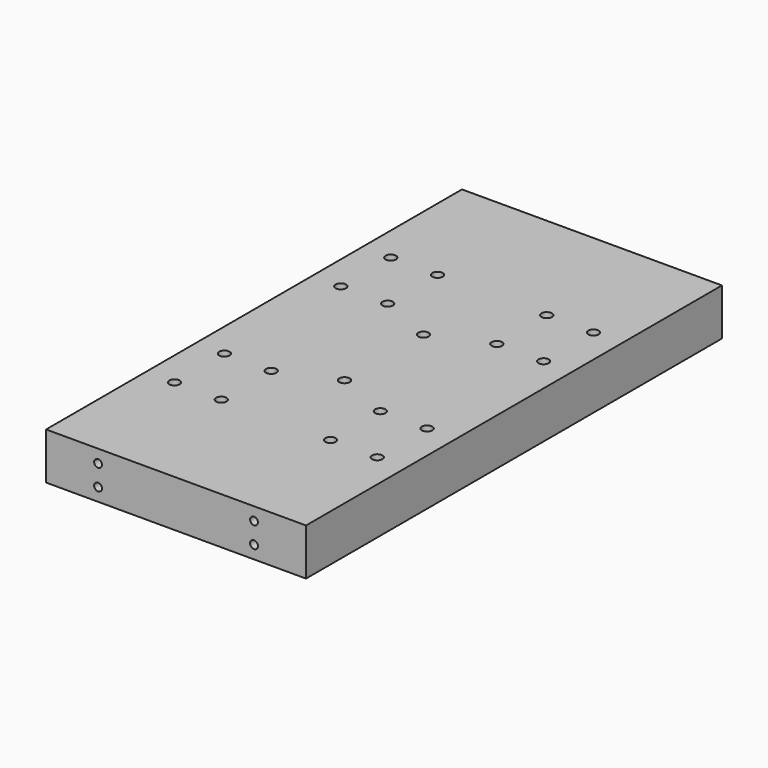
from build123d import *

# Parameters (mm, degrees)
CYLINDER021_R          = 1.5
CYLINDER021_DEPTH      = 15
CYLINDER021_ROLL_ANGLE = 90
CYLINDER020_R          = 1.5
CYLINDER020_DEPTH      = 15
CYLINDER020_ROLL_ANGLE = 90
CYLINDER018_R          = 1.5
CYLINDER018_DEPTH      = 15
CYLINDER018_ROLL_ANGLE = 90
CYLINDER019_R          = 1.5
CYLINDER019_DEPTH      = 15
CYLINDER019_ROLL_ANGLE = 90
CYLINDER017_R          = 2
CYLINDER017_DEPTH      = 25
CYLINDER016_R          = 2
CYLINDER016_DEPTH      = 25
CYLINDER001_R          = 2
CYLINDER001_DEPTH      = 25
CYLINDER002_R          = 2
CYLINDER002_DEPTH      = 25
CYLINDER003_R          = 2
CYLINDER003_DEPTH      = 25
CYLINDER_R             = 2
CYLINDER_DEPTH         = 25
BOX_W                  = 50
BOX_H                  = 100
BOX_DEPTH              = 18
CYLINDER013_R          = 2
CYLINDER013_DEPTH      = 25
CYLINDER014_R          = 2
CYLINDER014_DEPTH      = 25
CYLINDER015_R          = 2
CYLINDER015_DEPTH      = 25
CYLINDER012_R          = 2
CYLINDER012_DEPTH      = 25
BOX002_W               = 50
BOX002_H               = 100
BOX002_DEPTH           = 18
CYLINDER009_R          = 2
CYLINDER009_DEPTH      = 25
CYLINDER010_R          = 2
CYLINDER010_DEPTH      = 25
CYLINDER011_R          = 2
CYLINDER011_DEPTH      = 25
CYLINDER008_R          = 2
CYLINDER008_DEPTH      = 25
BOX003_W               = 50
BOX003_H               = 100
BOX003_DEPTH           = 18
CYLINDER005_R          = 2
CYLINDER005_DEPTH      = 25
CYLINDER006_R          = 2
CYLINDER006_DEPTH      = 25
CYLINDER007_R          = 2
CYLINDER007_DEPTH      = 25
CYLINDER004_R          = 2
CYLINDER004_DEPTH      = 25
BOX001_W               = 50
BOX001_H               = 100
BOX001_DEPTH           = 18


with BuildPart() as cilindro019:
    # Cylinder021 → Cylinder021 (new body)
    with BuildSketch(Plane.XY):
        Circle(CYLINDER021_R)
    extrude(amount=CYLINDER021_DEPTH)


with BuildPart() as cilindro019_1:
    # Cylinder021 roll: moved
    add(cilindro019.part.rotate(Axis((0, 0, 0), (1, 0, 0)), CYLINDER021_ROLL_ANGLE))


with BuildPart() as cilindro019_2:
    # Cylinder021 placement: moved
    add(cilindro019_1.part.moved(Location((20, 15, 9))))


with BuildPart() as fusion006:
    # Cylinder020 → Cylinder020 (new body)
    with BuildSketch(Plane.XY):
        Circle(CYLINDER020_R)
    extrude(amount=CYLINDER020_DEPTH)


with BuildPart() as fusion006_1:
    # Cylinder020 roll: moved
    add(fusion006.part.rotate(Axis((0, 0, 0), (1, 0, 0)), CYLINDER020_ROLL_ANGLE))


with BuildPart() as fusion006_2:
    # Cylinder020 placement: moved
    add(fusion006_1.part.moved(Location((80, 15, 9))))

    # Fusion006: union Cilindro019
    add(cilindro019_2.part)


with BuildPart() as fusion006_3:
    # Fusion006 placement: moved
    add(fusion006_2.part.moved(Location((0, 0, 4))))


with BuildPart() as mirror_of_fusion006:
    # mirror001: instance of Fusion006
    add(fusion006_3.part.mirror(Plane(origin=(0, 100, 18), x_dir=(1, 0, 0), z_dir=(0, 1, 0))))


with BuildPart() as cilindro016:
    # Cylinder018 → Cylinder018 (new body)
    with BuildSketch(Plane.XY):
        Circle(CYLINDER018_R)
    extrude(amount=CYLINDER018_DEPTH)


with BuildPart() as cilindro016_1:
    # Cylinder018 roll: moved
    add(cilindro016.part.rotate(Axis((0, 0, 0), (1, 0, 0)), CYLINDER018_ROLL_ANGLE))


with BuildPart() as cilindro016_2:
    # Cylinder018 placement: moved
    add(cilindro016_1.part.moved(Location((20, 15, 9))))


with BuildPart() as fusion005:
    # Cylinder019 → Cylinder019 (new body)
    with BuildSketch(Plane.XY):
        Circle(CYLINDER019_R)
    extrude(amount=CYLINDER019_DEPTH)


with BuildPart() as fusion005_1:
    # Cylinder019 roll: moved
    add(fusion005.part.rotate(Axis((0, 0, 0), (1, 0, 0)), CYLINDER019_ROLL_ANGLE))


with BuildPart() as fusion005_2:
    # Cylinder019 placement: moved
    add(fusion005_1.part.moved(Location((80, 15, 9))))

    # Fusion005: union Cilindro016
    add(cilindro016_2.part)


with BuildPart() as fusion005_3:
    # Fusion005 placement: moved
    add(fusion005_2.part.moved(Location((0, 0, -4))))


with BuildPart() as mirror_of_fusion005:
    # mirror: instance of Fusion005
    add(fusion005_3.part.mirror(Plane(origin=(80, 100, 18), x_dir=(-1, 0, 0), z_dir=(0, -1, 0))))


with BuildPart() as huecocentral2:
    # Cylinder017 → Cylinder017 (new body)
    with BuildSketch(Plane(origin=(50, 119, 0), x_dir=(1, 0, 0), z_dir=(0, 0, 1))):
        Circle(CYLINDER017_R)
    extrude(amount=CYLINDER017_DEPTH)


with BuildPart() as huecocentral1:
    # Cylinder016 → Cylinder016 (new body)
    with BuildSketch(Plane(origin=(50, 81, 0), x_dir=(1, 0, 0), z_dir=(0, 0, 1))):
        Circle(CYLINDER016_R)
    extrude(amount=CYLINDER016_DEPTH)


with BuildPart() as cilindro001:
    # Cylinder001 → Cylinder001 (new body)
    with BuildSketch(Plane(origin=(11, 72, 0), x_dir=(1, 0, 0), z_dir=(0, 0, 1))):
        Circle(CYLINDER001_R)
    extrude(amount=CYLINDER001_DEPTH)


with BuildPart() as cilindro002:
    # Cylinder002 → Cylinder002 (new body)
    with BuildSketch(Plane(origin=(29, 48, 0), x_dir=(1, 0, 0), z_dir=(0, 0, 1))):
        Circle(CYLINDER002_R)
    extrude(amount=CYLINDER002_DEPTH)


with BuildPart() as cilindro003:
    # Cylinder003 → Cylinder003 (new body)
    with BuildSketch(Plane(origin=(29, 72, 0), x_dir=(1, 0, 0), z_dir=(0, 0, 1))):
        Circle(CYLINDER003_R)
    extrude(amount=CYLINDER003_DEPTH)


with BuildPart() as huecos:
    # Cylinder → Cylinder (new body)
    with BuildSketch(Plane(origin=(11, 48, 0), x_dir=(1, 0, 0), z_dir=(0, 0, 1))):
        Circle(CYLINDER_R)
    extrude(amount=CYLINDER_DEPTH)

    # Fusion: union Cilindro001, Cilindro002, Cilindro003
    add(cilindro001.part)
    add(cilindro002.part)
    add(cilindro003.part)


with BuildPart() as cut003:
    # Box → Box (new body)
    with BuildSketch(Plane.XY):
        with Locations((25, 50)):
            Rectangle(BOX_W, BOX_H)
    extrude(amount=BOX_DEPTH)

    # Cut003: cut Huecos
    add(huecos.part, mode=Mode.SUBTRACT)


with BuildPart() as cilindro013:
    # Cylinder013 → Cylinder013 (new body)
    with BuildSketch(Plane(origin=(11, 72, 0), x_dir=(1, 0, 0), z_dir=(0, 0, 1))):
        Circle(CYLINDER013_R)
    extrude(amount=CYLINDER013_DEPTH)


with BuildPart() as cilindro014:
    # Cylinder014 → Cylinder014 (new body)
    with BuildSketch(Plane(origin=(29, 48, 0), x_dir=(1, 0, 0), z_dir=(0, 0, 1))):
        Circle(CYLINDER014_R)
    extrude(amount=CYLINDER014_DEPTH)


with BuildPart() as cilindro015:
    # Cylinder015 → Cylinder015 (new body)
    with BuildSketch(Plane(origin=(29, 72, 0), x_dir=(1, 0, 0), z_dir=(0, 0, 1))):
        Circle(CYLINDER015_R)
    extrude(amount=CYLINDER015_DEPTH)


with BuildPart() as huecos003:
    # Cylinder012 → Cylinder012 (new body)
    with BuildSketch(Plane(origin=(11, 48, 0), x_dir=(1, 0, 0), z_dir=(0, 0, 1))):
        Circle(CYLINDER012_R)
    extrude(amount=CYLINDER012_DEPTH)

    # Fusion003: union Cilindro013, Cilindro014, Cilindro015
    add(cilindro013.part)
    add(cilindro014.part)
    add(cilindro015.part)


with BuildPart() as huecos003_1:
    # Fusion003 placement: moved
    add(huecos003.part.moved(Location((0, 80, 0))))


with BuildPart() as cut:
    # Box002 → Box002 (new body)
    with BuildSketch(Plane(origin=(0, 100, 0), x_dir=(1, 0, 0), z_dir=(0, 0, 1))):
        with Locations((25, 50)):
            Rectangle(BOX002_W, BOX002_H)
    extrude(amount=BOX002_DEPTH)

    # Cut: cut Huecos003
    add(huecos003_1.part, mode=Mode.SUBTRACT)


with BuildPart() as cilindro009:
    # Cylinder009 → Cylinder009 (new body)
    with BuildSketch(Plane(origin=(11, 72, 0), x_dir=(1, 0, 0), z_dir=(0, 0, 1))):
        Circle(CYLINDER009_R)
    extrude(amount=CYLINDER009_DEPTH)


with BuildPart() as cilindro010:
    # Cylinder010 → Cylinder010 (new body)
    with BuildSketch(Plane(origin=(29, 48, 0), x_dir=(1, 0, 0), z_dir=(0, 0, 1))):
        Circle(CYLINDER010_R)
    extrude(amount=CYLINDER010_DEPTH)


with BuildPart() as cilindro011:
    # Cylinder011 → Cylinder011 (new body)
    with BuildSketch(Plane(origin=(29, 72, 0), x_dir=(1, 0, 0), z_dir=(0, 0, 1))):
        Circle(CYLINDER011_R)
    extrude(amount=CYLINDER011_DEPTH)


with BuildPart() as huecos002:
    # Cylinder008 → Cylinder008 (new body)
    with BuildSketch(Plane(origin=(11, 48, 0), x_dir=(1, 0, 0), z_dir=(0, 0, 1))):
        Circle(CYLINDER008_R)
    extrude(amount=CYLINDER008_DEPTH)

    # Fusion002: union Cilindro009, Cilindro010, Cilindro011
    add(cilindro009.part)
    add(cilindro010.part)
    add(cilindro011.part)


with BuildPart() as huecos002_1:
    # Fusion002 placement: moved
    add(huecos002.part.moved(Location((-40, 80, 0))))


with BuildPart() as cut001:
    # Box003 → Box003 (new body)
    with BuildSketch(Plane(origin=(-50, 100, 0), x_dir=(1, 0, 0), z_dir=(0, 0, 1))):
        with Locations((25, 50)):
            Rectangle(BOX003_W, BOX003_H)
    extrude(amount=BOX003_DEPTH)

    # Cut001: cut Huecos002
    add(huecos002_1.part, mode=Mode.SUBTRACT)


with BuildPart() as cut001_1:
    # Cut001 placement: moved
    add(cut001.part.moved(Location((100, 0, 0))))


with BuildPart() as cilindro005:
    # Cylinder005 → Cylinder005 (new body)
    with BuildSketch(Plane(origin=(11, 72, 0), x_dir=(1, 0, 0), z_dir=(0, 0, 1))):
        Circle(CYLINDER005_R)
    extrude(amount=CYLINDER005_DEPTH)


with BuildPart() as cilindro006:
    # Cylinder006 → Cylinder006 (new body)
    with BuildSketch(Plane(origin=(29, 48, 0), x_dir=(1, 0, 0), z_dir=(0, 0, 1))):
        Circle(CYLINDER006_R)
    extrude(amount=CYLINDER006_DEPTH)


with BuildPart() as cilindro007:
    # Cylinder007 → Cylinder007 (new body)
    with BuildSketch(Plane(origin=(29, 72, 0), x_dir=(1, 0, 0), z_dir=(0, 0, 1))):
        Circle(CYLINDER007_R)
    extrude(amount=CYLINDER007_DEPTH)


with BuildPart() as huecos001:
    # Cylinder004 → Cylinder004 (new body)
    with BuildSketch(Plane(origin=(11, 48, 0), x_dir=(1, 0, 0), z_dir=(0, 0, 1))):
        Circle(CYLINDER004_R)
    extrude(amount=CYLINDER004_DEPTH)

    # Fusion001: union Cilindro005, Cilindro006, Cilindro007
    add(cilindro005.part)
    add(cilindro006.part)
    add(cilindro007.part)


with BuildPart() as huecos001_1:
    # Fusion001 placement: moved
    add(huecos001.part.moved(Location((-40, 0, 0))))


with BuildPart() as cut009:
    # Box001 → Box001 (new body)
    with BuildSketch(Plane(origin=(-50, 0, 0), x_dir=(1, 0, 0), z_dir=(0, 0, 1))):
        with Locations((25, 50)):
            Rectangle(BOX001_W, BOX001_H)
    extrude(amount=BOX001_DEPTH)

    # Cut002: cut Huecos001
    add(huecos001_1.part, mode=Mode.SUBTRACT)


with BuildPart() as cut009_1:
    # Cut002 placement: moved
    add(cut009.part.moved(Location((100, 0, 0))))

    # Fusion004: union Cut003, Cut, Cut001
    add(cut003.part)
    add(cut.part)
    add(cut001_1.part)

    # Cut004: cut HuecoCentral1
    add(huecocentral1.part, mode=Mode.SUBTRACT)

    # Cut005: cut HuecoCentral2
    add(huecocentral2.part, mode=Mode.SUBTRACT)

    # Cut006: cut Mirror of Fusion005
    add(mirror_of_fusion005.part, mode=Mode.SUBTRACT)

    # Cut007: cut Fusion005
    add(fusion005_3.part, mode=Mode.SUBTRACT)

    # Cut008: cut Fusion006
    add(fusion006_3.part, mode=Mode.SUBTRACT)

    # Cut009: cut Mirror of Fusion006
    add(mirror_of_fusion006.part, mode=Mode.SUBTRACT)


solid = cut009_1.part
